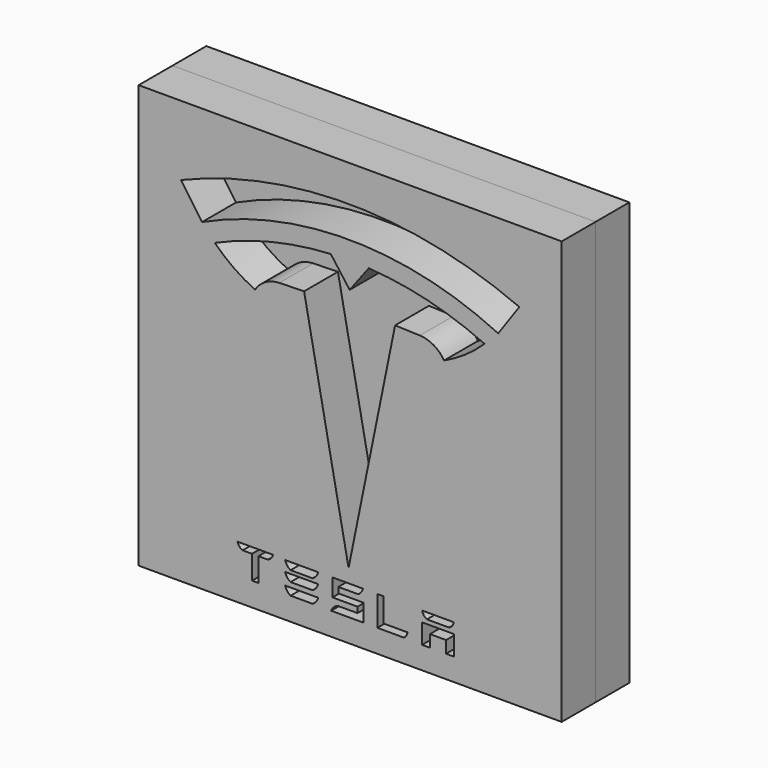
from build123d import *

# Parameters (mm, degrees)
F0_W     = 100
F0_H     = 100
F1_DEPTH = 10
F2_W     = 100
F2_H     = 100
F3_DEPTH = 10
F5_DEPTH = 10


with BuildPart() as f1:
    # F0 (on Front) → F1 (new body)
    with BuildSketch(Plane.XZ):
        Rectangle(F0_W, F0_H)
    extrude(amount=F1_DEPTH)


with BuildPart() as f3:
    # F2 (on face) → F3 (new body)
    with BuildSketch(Plane.XZ.offset(10)):
        Rectangle(F2_W, F2_H)
        with BuildLine():
            ThreePointArc((-22.496123, 16.377952), (-27.533795, 19.298471), (-32, 23.034858))
            ThreePointArc((-32, 23.034858), (-18.590811, 27.58958), (-4.57697, 29.630187))
            Line((-4.57697, 29.630187), (-0.117529, 23.624356))
            Line((-0.117529, 23.624356), (4.395257, 29.590207))
            ThreePointArc((4.395257, 29.590207), (18.390357, 27.424793), (31.758422, 22.750752))
            ThreePointArc((31.758422, 22.750752), (31.752454, 22.744927), (31.746485, 22.739104))
            ThreePointArc((31.746485, 22.739104), (27.252223, 19.049593), (22.195598, 16.178807))
            ThreePointArc((22.195598, 16.178807), (19.753952, 18.568273), (16.472125, 19.517373))
            Line((16.472125, 19.517373), (10.617825, 19.722229))
            Line((10.617825, 19.722229), (-0.37584, -34.345129))
            Line((-0.37584, -34.345129), (-10.887232, 19.818055))
            Line((-10.887232, 19.818055), (-16.743125, 19.665379))
            ThreePointArc((-16.743125, 19.665379), (-20.03328, 18.745564), (-22.496123, 16.377952))
        make_face(mode=Mode.SUBTRACT)
        with BuildLine():
            ThreePointArc((-40, 33.516364), (0.041817, 41.42999), (40, 33.10436))
            Line((40, 33.10436), (35, 25.976955))
            ThreePointArc((35, 25.976955), (0.046133, 34.020994), (-35, 26.38896))
            Line((-35, 26.38896), (-40, 33.516364))
        make_face(mode=Mode.SUBTRACT)
    extrude(amount=F3_DEPTH)

    # F4 (on face) → F5 (cut)
    with BuildSketch(Plane.XZ.offset(20)):
        with BuildLine():
            Line((-18.240365, -37.401031), (-26.619467, -37.401031))
            ThreePointArc((-26.619467, -37.401031), (-26.192441, -38.253458), (-25.422453, -38.815686))
            Line((-25.422453, -38.815686), (-23.19389, -38.815686))
            Line((-23.19389, -38.815686), (-23.19389, -44.404685))
            Line((-23.19389, -44.404685), (-22.429916, -44.404685))
            Line((-22.429916, -44.404685), (-21.665942, -44.404685))
            Line((-21.665942, -44.404685), (-21.665942, -38.815686))
            Line((-21.665942, -38.815686), (-19.43738, -38.815686))
            ThreePointArc((-19.43738, -38.815686), (-18.667391, -38.253458), (-18.240365, -37.401031))
        make_face()
        with BuildLine():
            Line((-11.472773, -37.559853), (-15.372773, -37.559853))
            ThreePointArc((-15.372773, -37.559853), (-14.897399, -38.537163), (-14.085712, -39.259853))
            Line((-14.085712, -39.259853), (-11.472773, -39.259853))
            Line((-11.472773, -39.259853), (-8.859835, -39.259853))
            ThreePointArc((-8.859835, -39.259853), (-8.048148, -38.537163), (-7.572773, -37.559853))
            Line((-7.572773, -37.559853), (-11.472773, -37.559853))
        make_face()
        with BuildLine():
            Line((-11.472773, -40.034259), (-15.372773, -40.034259))
            ThreePointArc((-15.372773, -40.034259), (-14.897399, -41.01157), (-14.085712, -41.734259))
            Line((-14.085712, -41.734259), (-11.472773, -41.734259))
            Line((-11.472773, -41.734259), (-8.859835, -41.734259))
            ThreePointArc((-8.859835, -41.734259), (-8.048148, -41.01157), (-7.572773, -40.034259))
            Line((-7.572773, -40.034259), (-11.472773, -40.034259))
        make_face()
        with BuildLine():
            Line((-11.472773, -42.871185), (-15.372773, -42.871185))
            ThreePointArc((-15.372773, -42.871185), (-14.897399, -43.848496), (-14.085712, -44.571185))
            Line((-14.085712, -44.571185), (-11.472773, -44.571185))
            Line((-11.472773, -44.571185), (-8.859835, -44.571185))
            ThreePointArc((-8.859835, -44.571185), (-8.048148, -43.848496), (-7.572773, -42.871185))
            Line((-7.572773, -42.871185), (-11.472773, -42.871185))
        make_face()
        with BuildLine():
            ThreePointArc((1.932252, -39.067592), (2.627765, -38.402056), (3.056768, -37.540294))
            Line((3.056768, -37.540294), (-4.187748, -37.540294))
            Line((-4.187748, -37.540294), (-4.187748, -41.707016))
            Line((-4.187748, -41.707016), (1.746776, -41.707016))
            Line((1.746776, -41.707016), (1.746776, -43.0546))
            Line((1.746776, -43.0546), (-2.973224, -43.0546))
            ThreePointArc((-2.973224, -43.0546), (-3.889615, -43.665179), (-4.499701, -44.581897))
            Line((-4.499701, -44.581897), (3.146776, -44.581897))
            Line((3.146776, -44.581897), (3.146776, -40.415176))
            Line((3.146776, -40.415176), (-2.787748, -40.415176))
            Line((-2.787748, -40.415176), (-2.787748, -39.067592))
            Line((-2.787748, -39.067592), (1.932252, -39.067592))
        make_face()
        with BuildLine():
            Line((7.926718, -37.540294), (6.4395, -37.540294))
            Line((6.4395, -37.540294), (6.4395, -44.581897))
            Line((6.4395, -44.581897), (12.74251, -44.581897))
            ThreePointArc((12.74251, -44.581897), (13.284445, -43.972115), (13.564029, -43.205719))
            Line((13.564029, -43.205719), (7.926718, -43.205719))
            Line((7.926718, -43.205719), (7.926718, -37.540294))
        make_face()
        Polygon((24.532836, -40.002692), (20.763628, -40.002692), (16.99442, -40.002692), (16.99442, -44.700727), (18.858718, -44.700727), (18.858718, -41.84835), (20.763628, -41.84835), (22.668539, -41.84835), (22.668539, -44.700727), (24.532836, -44.700727), align=None)
        with BuildLine():
            Line((20.763628, -37.540294), (17.050337, -37.540294))
            ThreePointArc((17.050337, -37.540294), (17.40084, -38.426274), (18.150285, -39.014615))
            Line((18.150285, -39.014615), (20.763628, -39.014615))
            Line((20.763628, -39.014615), (23.376971, -39.014615))
            ThreePointArc((23.376971, -39.014615), (24.126417, -38.426274), (24.476919, -37.540294))
            Line((24.476919, -37.540294), (20.763628, -37.540294))
        make_face()
    extrude(amount=-F5_DEPTH, mode=Mode.SUBTRACT)


solid = Compound([f1.part, f3.part])
